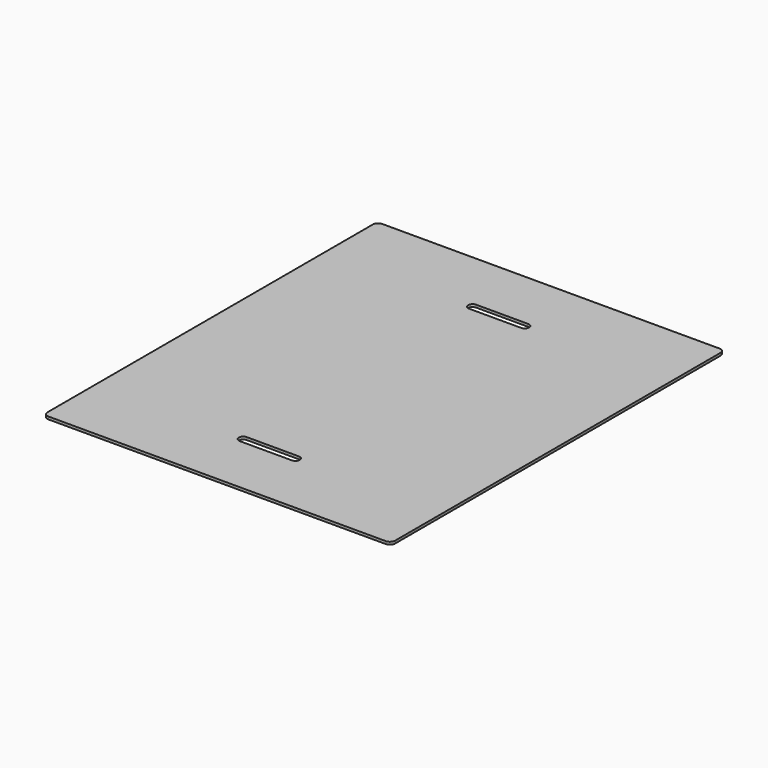
from build123d import *

# Parameters (mm, degrees)
F1_DEPTH = 6
F3_DEPTH = 6
F5_DEPTH = 6


with BuildPart() as f1:
    # F0 (on Top) → F1 (new body)
    with BuildSketch(Plane.XY):
        with BuildLine():
            Line((39, 41.660154), (-39, 41.660154))
            ThreePointArc((-39, 41.660154), (-43.242641, 39.902795), (-45, 35.660154))
            Line((-45, 35.660154), (-45, -42.339846))
            ThreePointArc((-45, -42.339846), (-43.242641, -46.582486), (-39, -48.339846))
            Line((-39, -48.339846), (39, -48.339846))
            ThreePointArc((39, -48.339846), (43.242641, -46.582486), (45, -42.339846))
            Line((45, -42.339846), (45, 35.660154))
            ThreePointArc((45, 35.660154), (43.242641, 39.902795), (39, 41.660154))
        make_face()
    extrude(amount=F1_DEPTH)


with BuildPart() as f3:
    # F2 (on Top) → F3 (new body)
    with BuildSketch(Plane.XY):
        with BuildLine():
            ThreePointArc((65, 59), (63.242641, 63.242641), (59, 65))
            Line((59, 65), (-59, 65))
            ThreePointArc((-59, 65), (-63.242641, 63.242641), (-65, 59))
            Line((-65, 59), (-65, -59))
            ThreePointArc((-65, -59), (-63.242641, -63.242641), (-59, -65))
            Line((-59, -65), (59, -65))
            ThreePointArc((59, -65), (63.242641, -63.242641), (65, -59))
            Line((65, -59), (65, 59))
        make_face()
    extrude(amount=F3_DEPTH)


with BuildPart() as f5:
    # F4 (on Top) → F5 (new body)
    with BuildSketch(Plane.XY):
        with BuildLine():
            Line((388, 480), (-388, 480))
            ThreePointArc((-388, 480), (-396.485281, 476.485281), (-400, 468))
            Line((-400, 468), (-400, -468))
            ThreePointArc((-400, -468), (-396.485281, -476.485281), (-388, -480))
            Line((-388, -480), (388, -480))
            ThreePointArc((388, -480), (396.485281, -476.485281), (400, -468))
            Line((400, -468), (400, 468))
            ThreePointArc((400, 468), (396.485281, 476.485281), (388, 480))
        make_face()
        with BuildLine():
            Line((60, -340), (-60, -340))
            ThreePointArc((-60, -340), (-70, -330), (-60, -320))
            Line((-60, -320), (60, -320))
            ThreePointArc((60, -320), (70, -330), (60, -340))
        make_face(mode=Mode.SUBTRACT)
        with BuildLine():
            ThreePointArc((-60, 320), (-70, 330), (-60, 340))
            Line((-60, 340), (60, 340))
            ThreePointArc((60, 340), (70, 330), (60, 320))
            Line((60, 320), (-60, 320))
        make_face(mode=Mode.SUBTRACT)
    extrude(amount=F5_DEPTH)


solid = Compound([f1.part, f3.part, f5.part])
